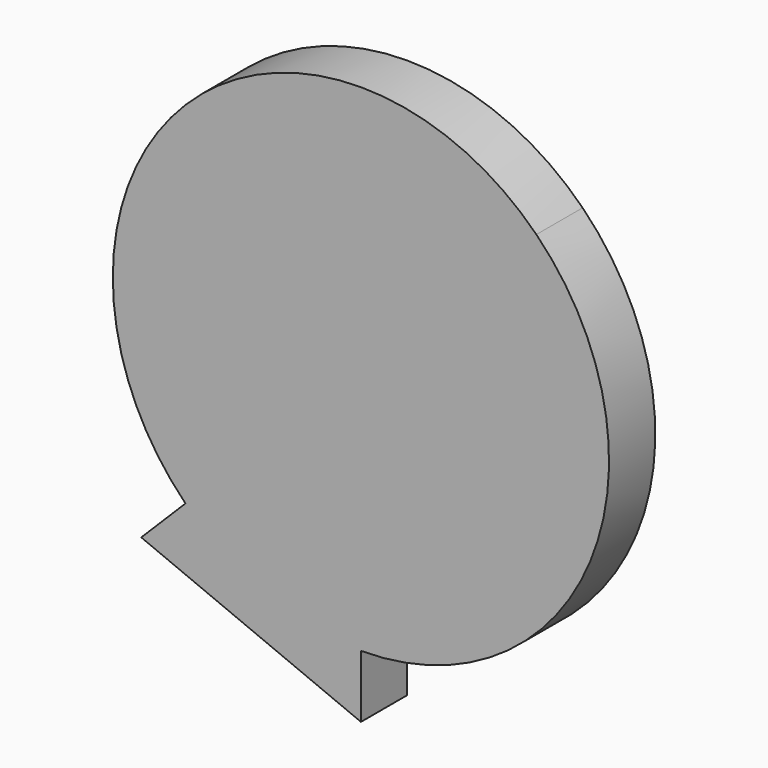
from build123d import *

# Parameters (mm, degrees)
F1_DEPTH = 76.2


with BuildPart() as f1:
    # F0 (on Front) → F1 (new body)
    with BuildSketch(Plane.XZ):
        with BuildLine():
            Line((231.2415951175, 231.2415951175), (327.025, 0))
            ThreePointArc((327.025, 0), (302.1317041195, 125.1470494692), (231.2415951175, 231.2415951175))
        make_face()
        Polygon((0, 0), (327.025, 0), (231.2415951175, 231.2415951175), align=None)
        with BuildLine():
            ThreePointArc((231.2415951175, -231.2415951175), (302.1317041195, -125.1470494692), (327.025, 0))
            Line((327.025, 0), (231.2415951175, -231.2415951175))
        make_face()
        Polygon((231.2415951175, -231.2415951175), (327.025, 0), (0, 0), align=None)
        with BuildLine():
            Line((0, 327.025), (231.2415951175, 231.2415951175))
            ThreePointArc((231.2415951175, 231.2415951175), (125.1470494692, 302.1317041195), (0, 327.025))
        make_face()
        Polygon((0, 0), (231.2415951175, 231.2415951175), (0, 327.025), align=None)
        with BuildLine():
            ThreePointArc((0, -327.025), (125.1470494692, -302.1317041195), (231.2415951175, -231.2415951175))
            Line((231.2415951175, -231.2415951175), (0, -327.025))
        make_face()
        Polygon((0, -327.025), (231.2415951175, -231.2415951175), (0, 0), align=None)
        Polygon((0, -327.025), (0, 0), (-231.2415951175, -231.2415951175), align=None)
        Polygon((-231.2415951175, 231.2415951175), (0, 0), (0, 327.025), align=None)
        Polygon((-327.025, 0), (0, 0), (-231.2415951175, 231.2415951175), align=None)
        Polygon((-231.2415951175, -231.2415951175), (0, 0), (-327.025, 0), align=None)
        with BuildLine():
            Line((-231.2415951175, 231.2415951175), (0, 327.025))
            ThreePointArc((0, 327.025), (-125.1470494692, 302.1317041195), (-231.2415951175, 231.2415951175))
        make_face()
        with BuildLine():
            Line((0, -409.5032856623), (0, -327.025))
            ThreePointArc((0, -327.025), (-125.1470494692, -302.1317041195), (-231.2415951175, -231.2415951175))
            Line((-231.2415951175, -231.2415951175), (-289.56255021, -289.56255021))
            Line((-289.56255021, -289.56255021), (0, -409.5032856623))
        make_face()
        with BuildLine():
            ThreePointArc((-231.2415951175, -231.2415951175), (-125.1470494692, -302.1317041195), (0, -327.025))
            Line((0, -327.025), (-231.2415951175, -231.2415951175))
        make_face()
        with BuildLine():
            ThreePointArc((-327.025, 0), (-302.1317041195, -125.1470494692), (-231.2415951175, -231.2415951175))
            Line((-231.2415951175, -231.2415951175), (-327.025, 0))
        make_face()
        with BuildLine():
            Line((-327.025, 0), (-231.2415951175, 231.2415951175))
            ThreePointArc((-231.2415951175, 231.2415951175), (-302.1317041195, 125.1470494692), (-327.025, 0))
        make_face()
    extrude(amount=F1_DEPTH)


solid = f1.part
